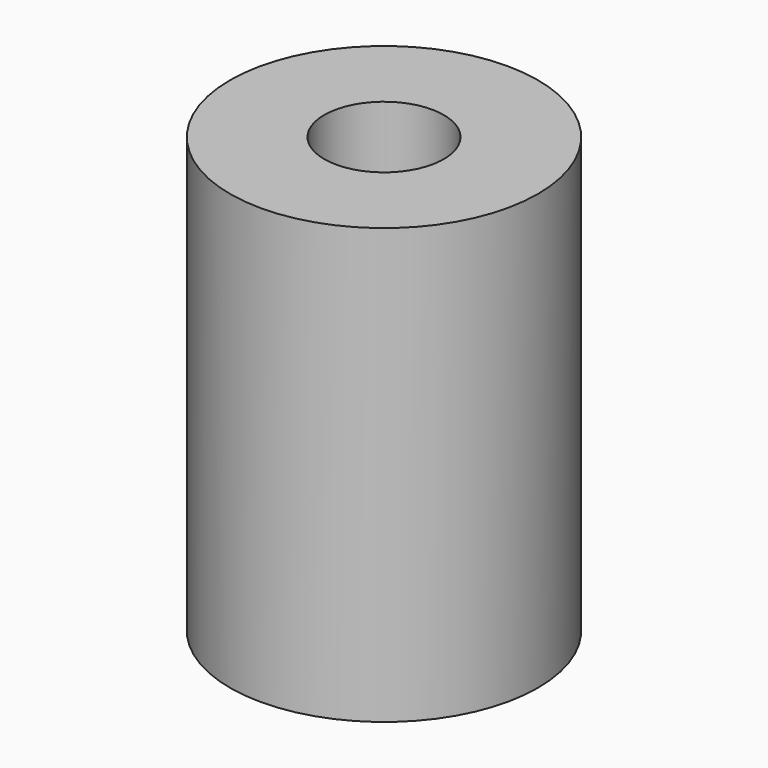
from build123d import *

# Parameters (mm, degrees)
F0_R     = 4.25
F1_DEPTH = 12
F3_D     = 3.3


with BuildPart() as f1:
    # F0 (on Top) → F1 (new body)
    with BuildSketch(Plane.XY):
        Circle(F0_R)
    extrude(amount=-F1_DEPTH)

    # F3 (through all)
    with Locations(Plane.XY):
        with Locations((0, 0)):
            Hole(F3_D / 2)


solid = f1.part
